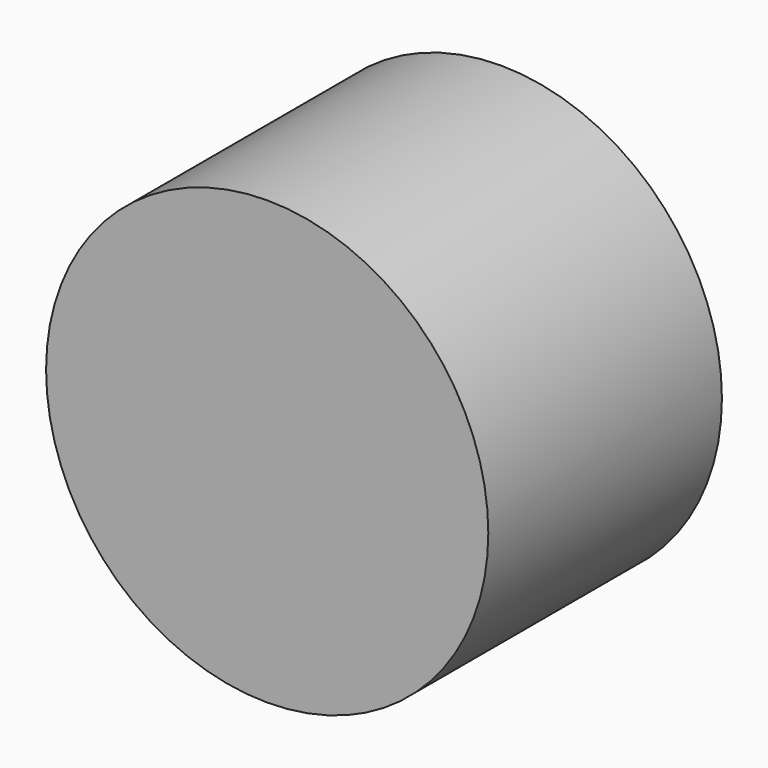
from build123d import *

# Parameters (mm, degrees)
F0_R       = 18.6431523729
F1_DEPTH   = 11.43
F2_R       = 28.8493495365
F3_DEPTH   = 38.1
F4_R       = 18.663241222
F3_FACE1_R = 28.8493495365
F5_DEPTH   = 12.7


with BuildPart() as f1:
    # F0 (on Front) → F1 (new body)
    with BuildSketch(Plane.XZ):
        Circle(F0_R)
    extrude(amount=F1_DEPTH)

    # F2 (on Front) → F3 (join)
    with BuildSketch(Plane.XZ):
        Circle(F2_R)
    extrude(amount=F3_DEPTH)

    # F4 (on face) + F3_face1 (on face) → F5 (cut)
    with BuildSketch(Plane(origin=(0, 0, 0), x_dir=(-1, 0, 0), z_dir=(0, 1, 0))):
        Circle(F4_R)
    with BuildSketch(Plane.XZ.offset(38.1)):
        Circle(F3_FACE1_R)
    extrude(amount=-F5_DEPTH, dir=(0, 1, 0), mode=Mode.SUBTRACT)


solid = f1.part
